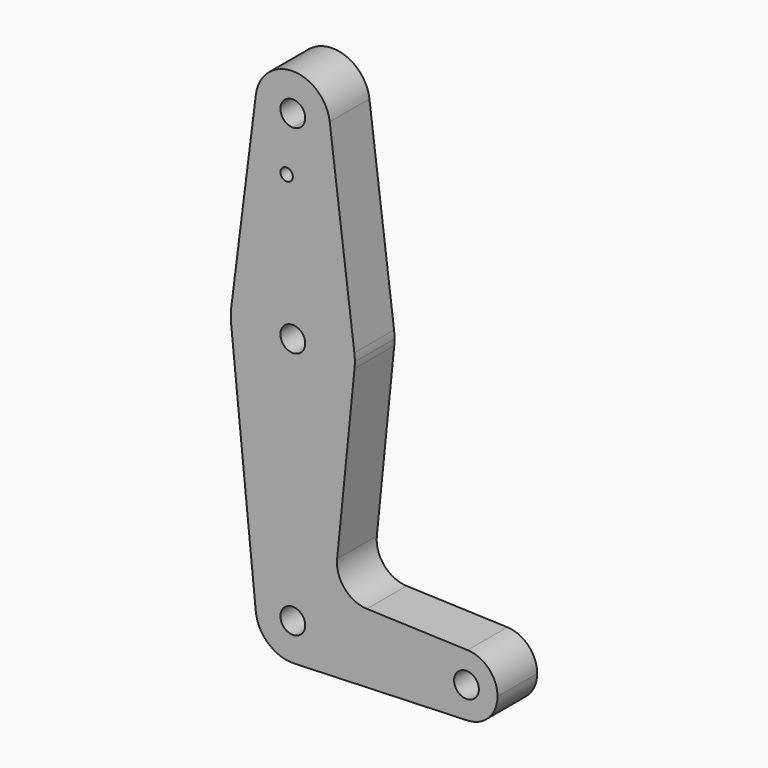
from build123d import *

# Parameters (mm, degrees)
F0_R     = 3.175
F1_DEPTH = 12.7
F0_R_2   = 1.5875


with BuildPart() as f1:
    # F0 (on Front) → F1 (new body)
    with BuildSketch(Plane.XZ):
        with Locations((-96.8591794372, -59.9242933095)):
            Circle(F0_R)
    extrude(amount=F1_DEPTH)


with BuildPart() as f1b:
    # F0 (on Front) → F1, piece 2 (new body)
    with BuildSketch(Plane.XZ):
        with BuildLine():
            ThreePointArc((9.525, 0), (-0.4768479324, 9.5130563464), (-9.4772553384, -0.9525))
            ThreePointArc((-9.4772553384, -0.9525), (-6.2623833816, -7.1769199091), (0.3401785714, -9.5189234444))
            ThreePointArc((0.3401785714, -9.5189234444), (6.8544082857, -6.6138273378), (9.525, 0))
        make_face()
        Circle(F0_R, mode=Mode.SUBTRACT)
        with BuildLine():
            ThreePointArc((52.3875, 0), (50.1620069047, 5.5115227815), (44.7334821429, 7.9324362036))
            ThreePointArc((44.7334821429, 7.9324362036), (36.5125, 0), (44.7334821429, -7.9324362036))
            ThreePointArc((44.7334821429, -7.9324362036), (50.1620069047, -5.5115227815), (52.3875, 0))
        make_face()
        with Locations((44.45, 0)):
            Circle(F0_R, mode=Mode.SUBTRACT)
        with BuildLine():
            Line((11.3411865923, 17.5933818124), (15.7954255641, 61.9125))
            ThreePointArc((15.7954255641, 61.9125), (0, 47.625), (-15.7954255641, 61.9125))
            Line((-15.7954255641, 61.9125), (-9.4772553384, -0.9525))
            ThreePointArc((-9.4772553384, -0.9525), (-0.4768479324, 9.5130563464), (9.525, 0))
            ThreePointArc((9.525, 0), (6.8544082857, -6.6138273378), (0.3401785714, -9.5189234444))
            Line((0.3401785714, -9.5189234444), (44.7334821429, -7.9324362036))
            ThreePointArc((44.7334821429, -7.9324362036), (36.5125, 0), (44.7334821429, 7.9324362036))
            Line((44.7334821429, 7.9324362036), (18.9676000005, 8.8532337108))
            ThreePointArc((18.9676000005, 8.8532337108), (13.2611998974, 11.5713591498), (11.3411865923, 17.5933818124))
        make_face()
        with BuildLine():
            ThreePointArc((0, 79.375), (10.5003255158, 75.40625), (15.7504882737, 65.484375))
            Line((15.7504882737, 65.484375), (9.4502929642, 115.490625))
            ThreePointArc((9.4502929642, 115.490625), (9.5063048942, 114.896483242), (9.525, 114.3))
            ThreePointArc((9.525, 114.3), (6.7351920908, 107.5648079092), (0, 104.775))
            Line((0, 104.775), (0, 100.0252))
            Line((0, 100.0252), (0, 79.375))
        make_face()
        with BuildLine():
            ThreePointArc((9.525, 114.3), (9.5063048942, 114.896483242), (9.4502929642, 115.490625))
            ThreePointArc((9.4502929642, 115.490625), (0, 123.825), (-9.4502929642, 115.490625))
            ThreePointArc((-9.4502929642, 115.490625), (-7.14375, 107.9998046905), (0, 104.775))
            ThreePointArc((0, 104.775), (6.7351920908, 107.5648079092), (9.525, 114.3))
        make_face()
        with BuildLine():
            ThreePointArc((3.175, 114.3), (2.2450640303, 112.0549359697), (0, 111.125))
            ThreePointArc((0, 111.125), (-2.2450640303, 116.5450640303), (3.175, 114.3))
        make_face(mode=Mode.SUBTRACT)
        with BuildLine():
            ThreePointArc((15.7954255641, 61.9125), (15.8550939106, 62.7052534459), (15.875, 63.5))
            ThreePointArc((15.875, 63.5), (15.8438414904, 64.4941387366), (15.7504882737, 65.484375))
            ThreePointArc((15.7504882737, 65.484375), (10.5003255158, 75.40625), (0, 79.375))
            ThreePointArc((0, 79.375), (-10.5003255158, 75.40625), (-15.7504882737, 65.484375))
            ThreePointArc((-15.7504882737, 65.484375), (-15.8737438155, 63.6997054867), (-15.7954255641, 61.9125))
            ThreePointArc((-15.7954255641, 61.9125), (0, 47.625), (15.7954255641, 61.9125))
        make_face()
        with BuildLine():
            ThreePointArc((3.175, 63.5), (-2.2450640303, 61.2549359697), (0, 66.675))
            ThreePointArc((0, 66.675), (2.2450640303, 65.7450640303), (3.175, 63.5))
        make_face(mode=Mode.SUBTRACT)
        with BuildLine():
            ThreePointArc((-15.7504882737, 65.484375), (-10.5003255158, 75.40625), (0, 79.375))
            Line((0, 79.375), (0, 100.0252))
            Line((0, 100.0252), (0, 104.775))
            ThreePointArc((0, 104.775), (-7.14375, 107.9998046905), (-9.4502929642, 115.490625))
            Line((-9.4502929642, 115.490625), (-15.7504882737, 65.484375))
        make_face()
        with Locations((-1.5875, 100.0252)):
            Circle(F0_R_2, mode=Mode.SUBTRACT)
    extrude(amount=F1_DEPTH)


solid = f1b.part
